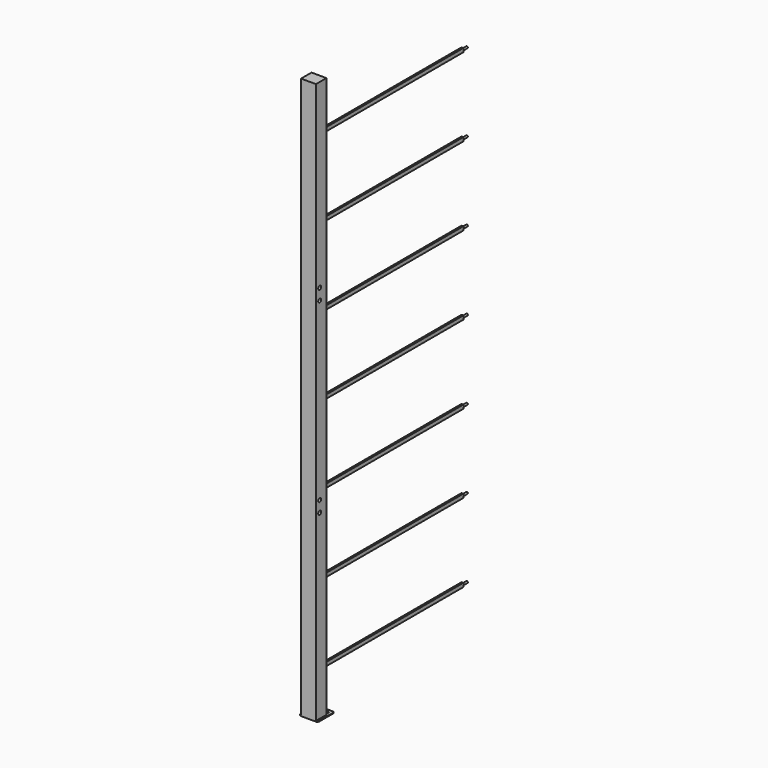
from build123d import *

# Parameters (mm, degrees)
SKETCH_R     = 6
PAD_DEPTH    = 4
SKETCH001_W  = 80
SKETCH001_H  = 70
PAD001_DEPTH = 3000
SKETCH002_R  = 10
POCKET_DEPTH = 80
SKETCH004_W  = 10
SKETCH004_H  = 20
PAD002_DEPTH = 960
SKETCH005_R  = 5
PAD003_DEPTH = 30


with BuildPart() as part:
    # Sketch → Pad (new body)
    with BuildSketch(Plane.XY):
        with BuildLine():
            Line((10, 0), (90, 0))
            ThreePointArc((100, -10), (97.071068, -2.928932), (90, 0))
            Line((100, -10), (100, -101))
            ThreePointArc((90, -111), (97.071068, -108.071068), (100, -101))
            Line((90, -111), (10, -111))
            ThreePointArc((0, -101), (2.928932, -108.071068), (10, -111))
            Line((0, -101), (0, -10))
            ThreePointArc((10, 0), (2.928932, -2.928932), (0, -10))
        make_face()
        with Locations((20, -20)):
            Circle(SKETCH_R, mode=Mode.SUBTRACT)
        with Locations((50, -20)):
            Circle(SKETCH_R, mode=Mode.SUBTRACT)
        with Locations((80, -20)):
            Circle(SKETCH_R, mode=Mode.SUBTRACT)
    extrude(amount=PAD_DEPTH)

    # Sketch001 (on Face13 of Pad) → Pad001 (join)
    with BuildSketch(Plane.XY.offset(4)):
        with Locations((50, -76)):
            Rectangle(SKETCH001_W, SKETCH001_H)
    extrude(amount=PAD001_DEPTH)

    # Sketch002 (on Face14 of Pad001) → Pocket (cut)
    with BuildSketch(Plane.YZ.offset(90)):
        with Locations((-86, 1034)):
            Circle(SKETCH002_R)
        with Locations((-86, 974)):
            Circle(SKETCH002_R)
        with Locations((-86, 2034)):
            Circle(SKETCH002_R)
        with Locations((-86, 1974)):
            Circle(SKETCH002_R)
    extrude(amount=-POCKET_DEPTH, mode=Mode.SUBTRACT)

    # Sketch004 (on Face15 of Pocket) → Pad002 (join)
    with BuildSketch(Plane(origin=(0, -41, 0), x_dir=(-1, 0, 0), z_dir=(0, 1, 0))):
        with Locations((-50, 214)):
            Rectangle(SKETCH004_W, SKETCH004_H)
        with Locations((-50, 634)):
            Rectangle(SKETCH004_W, SKETCH004_H)
        with Locations((-50, 1054)):
            Rectangle(SKETCH004_W, SKETCH004_H)
        with Locations((-50, 1474)):
            Rectangle(SKETCH004_W, SKETCH004_H)
        with Locations((-50, 1894)):
            Rectangle(SKETCH004_W, SKETCH004_H)
        with Locations((-50, 2314)):
            Rectangle(SKETCH004_W, SKETCH004_H)
        with Locations((-50, 2734)):
            Rectangle(SKETCH004_W, SKETCH004_H)
    extrude(amount=PAD002_DEPTH)

    # Sketch005 (on Face52 of Pad002) → Pad003 (join)
    with BuildSketch(Plane(origin=(0, 919, 0), x_dir=(-1, 0, 0), z_dir=(0, 1, 0))):
        with Locations((-50, 1474)):
            Circle(SKETCH005_R)
        with Locations((-50, 1054)):
            Circle(SKETCH005_R)
        with Locations((-50, 214)):
            Circle(SKETCH005_R)
        with Locations((-50, 634)):
            Circle(SKETCH005_R)
        with Locations((-50, 1894)):
            Circle(SKETCH005_R)
        with Locations((-50, 2314)):
            Circle(SKETCH005_R)
        with Locations((-50, 2734)):
            Circle(SKETCH005_R)
    extrude(amount=PAD003_DEPTH)


solid = part.part
